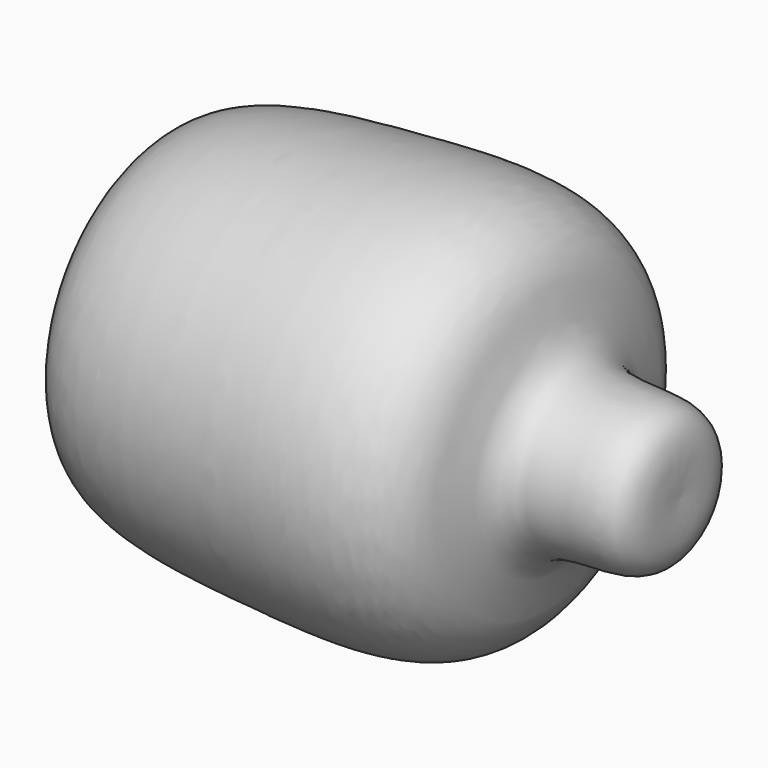
from build123d import *


with BuildPart() as f1:
    # F0 (on Front) → F1 (revolve)
    with BuildSketch(Plane.XZ):
        with BuildLine():
            add(Edge.make_bspline(
                [(-57.3260560632, 0), (-58.0875183986, 9.734758275), (-59.4205641221, 26.7768065603), (-51.9096259912, 44.1186750851), (-12.218235717, 47.2868333331), (21.6758012606, 49.2974723747), (38.5428229639, 37.978422042), (38.6804759869, 14.5259137321), (70.3001645076, 21.4510178526), (69.3478245852, 6.7867373849), (68.9070746303, 0)],
                knots=[0, 0, 0, 0, 0.1356901384, 0.2375444592, 0.3978188698, 0.5525402125, 0.6613288015, 0.7703450023, 0.8937139697, 1, 1, 1, 1], degree=3))
            Line((-57.3260560632, 0), (68.9070746303, 0))
        make_face()
    revolve(axis=Axis((5.7905092835, 0, 0), (1, 0, 0)))


solid = f1.part
